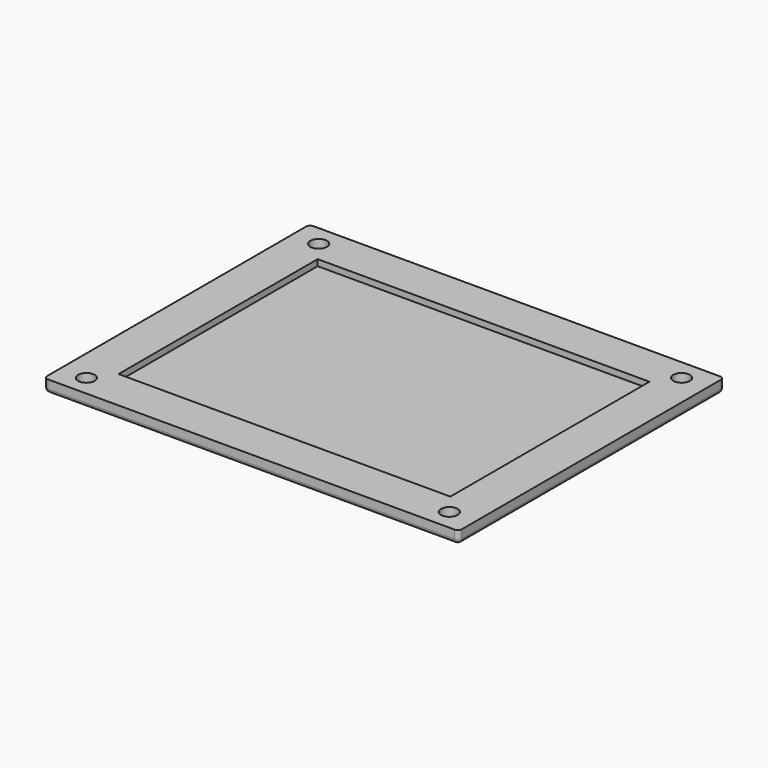
from build123d import *

# Parameters (mm, degrees)
SKETCH_W     = 100
SKETCH_H     = 80
SKETCH_R     = 2
PAD_DEPTH    = 3
SKETCH002_W  = 80
SKETCH002_H  = 60
POCKET_DEPTH = 1.5
FILLET_R     = 1
FILLET001_R  = 1
FILLET002_R  = 1
FILLET003_R  = 1


with BuildPart() as part:
    # Sketch → Pad (new body)
    with BuildSketch(Plane.XY):
        Rectangle(SKETCH_W, SKETCH_H)
        with Locations((-43.75305, -35.00244)):
            Circle(SKETCH_R, mode=Mode.SUBTRACT)
        with Locations((43.75305, 35.00244)):
            Circle(SKETCH_R, mode=Mode.SUBTRACT)
        with Locations((-43.75305, 35.00244)):
            Circle(SKETCH_R, mode=Mode.SUBTRACT)
        with Locations((43.75305, -35.00244)):
            Circle(SKETCH_R, mode=Mode.SUBTRACT)
    extrude(amount=PAD_DEPTH)

    # Sketch002 (on Face10 of Pad) → Pocket (cut)
    with BuildSketch(Plane.XY.offset(3)):
        Rectangle(SKETCH002_W, SKETCH002_H)
    extrude(amount=-POCKET_DEPTH, mode=Mode.SUBTRACT)

    # Fillet
    fillet_edges = [part.edges().sort_by_distance(p)[0] for p in [
        (0, -40, 0),
    ]]
    fillet(fillet_edges, radius=FILLET_R)

    # Fillet001
    fillet001_edges = [part.edges().sort_by_distance(p)[0] for p in [
        (0, 40, 0),
    ]]
    fillet(fillet001_edges, radius=FILLET001_R)

    # Fillet002
    fillet002_edges = [part.edges().sort_by_distance(p)[0] for p in [
        (-50, 0, 0),
    ]]
    fillet(fillet002_edges, radius=FILLET002_R)

    # Fillet003
    fillet003_edges = [part.edges().sort_by_distance(p)[0] for p in [
        (50, 0, 0),
    ]]
    fillet(fillet003_edges, radius=FILLET003_R)


solid = part.part
